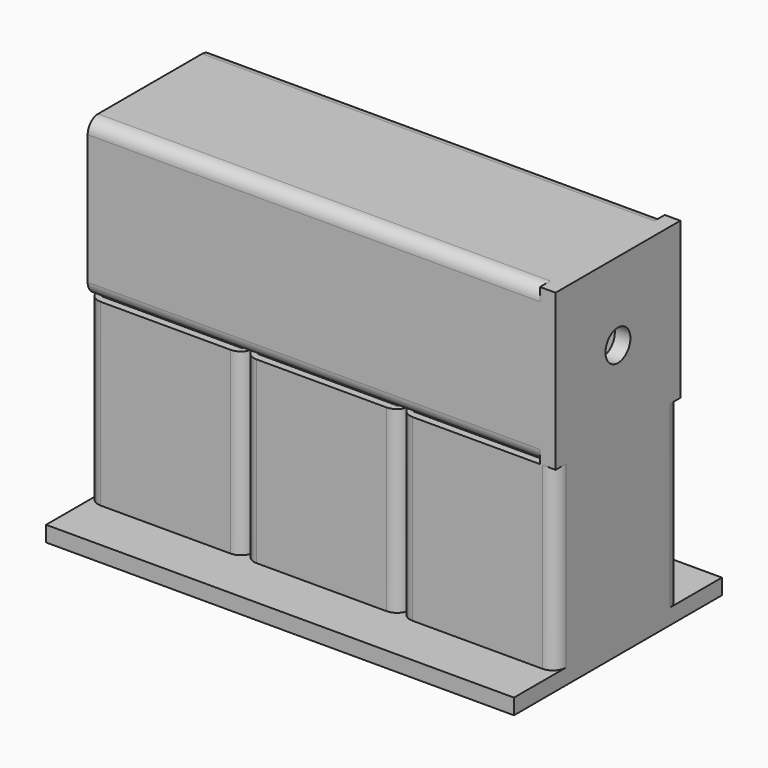
from build123d import *

# Parameters (mm, degrees)
F0_W     = 54
F0_H     = 54
F1_DEPTH = 69
F2_W     = 54
F2_H     = 54
F3_DEPTH = 6
F4_W     = 54
F4_H     = 54
F5_DEPTH = 180
F6_W     = 60
F6_H     = 60
F6_R     = 6
F7_DEPTH = 6


with BuildPart() as f1:
    # F0 (on Top) → F1 (new body)
    with BuildSketch(Plane.XY):
        with BuildLine():
            ThreePointArc((-10.85040465, -8.5986092687), (-12.314870744, -5.0630753627), (-15.85040465, -3.5986092687))
            Line((-15.85040465, -3.5986092687), (-65.85040465, -3.5986092687))
            ThreePointArc((-65.85040465, -3.5986092687), (-69.3859385559, -5.0630753627), (-70.85040465, -8.5986092687))
            Line((-70.85040465, -8.5986092687), (-70.85040465, -58.5986092687))
            ThreePointArc((-70.85040465, -58.5986092687), (-69.3859385559, -62.1341431746), (-65.85040465, -63.5986092687))
            Line((-65.85040465, -63.5986092687), (-15.85040465, -63.5986092687))
            ThreePointArc((-15.85040465, -63.5986092687), (-12.314870744, -62.1341431746), (-10.85040465, -58.5986092687))
            Line((-10.85040465, -58.5986092687), (-10.85040465, -8.5986092687))
        make_face()
        with Locations((-40.85040465, -33.5986092687)):
            Rectangle(F0_W, F0_H, mode=Mode.SUBTRACT)
        with BuildLine():
            ThreePointArc((-5.85040465, -3.5986092687), (-9.3859385559, -5.0630753627), (-10.85040465, -8.5986092687))
            Line((-10.85040465, -8.5986092687), (-10.85040465, -58.5986092687))
            ThreePointArc((-10.85040465, -58.5986092687), (-9.3859385559, -62.1341431746), (-5.85040465, -63.5986092687))
            Line((-5.85040465, -63.5986092687), (44.14959535, -63.5986092687))
            ThreePointArc((44.14959535, -63.5986092687), (47.685129256, -62.1341431746), (49.14959535, -58.5986092687))
            Line((49.14959535, -58.5986092687), (49.14959535, -8.5986092687))
            ThreePointArc((49.14959535, -8.5986092687), (47.685129256, -5.0630753627), (44.14959535, -3.5986092687))
            Line((44.14959535, -3.5986092687), (-5.85040465, -3.5986092687))
        make_face()
        with Locations((19.14959535, -33.5986092687)):
            Rectangle(F0_W, F0_H, mode=Mode.SUBTRACT)
        with BuildLine():
            ThreePointArc((54.14959535, -3.5986092687), (50.6140614441, -5.0630753627), (49.14959535, -8.5986092687))
            Line((49.14959535, -8.5986092687), (49.14959535, -58.5986092687))
            ThreePointArc((49.14959535, -58.5986092687), (50.6140614441, -62.1341431746), (54.14959535, -63.5986092687))
            Line((54.14959535, -63.5986092687), (104.14959535, -63.5986092687))
            ThreePointArc((104.14959535, -63.5986092687), (107.685129256, -62.1341431746), (109.14959535, -58.5986092687))
            Line((109.14959535, -58.5986092687), (109.14959535, -8.5986092687))
            ThreePointArc((109.14959535, -8.5986092687), (107.685129256, -5.0630753627), (104.14959535, -3.5986092687))
            Line((104.14959535, -3.5986092687), (54.14959535, -3.5986092687))
        make_face()
        with Locations((79.14959535, -33.5986092687)):
            Rectangle(F0_W, F0_H, mode=Mode.SUBTRACT)
    extrude(amount=F1_DEPTH)

    # F2 (on face) → F3 (join)
    with BuildSketch(Plane(origin=(0, 0, 0), x_dir=(1, 0, 0), z_dir=(0, 0, -1))):
        with BuildLine():
            Line((-70.85040465, -16.4013907313), (109.14959535, -16.4013907313))
            Line((109.14959535, -16.4013907313), (109.14959535, 8.5986092687))
            ThreePointArc((109.14959535, 8.5986092687), (107.685129256, 5.0630753627), (104.14959535, 3.5986092687))
            Line((104.14959535, 3.5986092687), (54.14959535, 3.5986092687))
            ThreePointArc((54.14959535, 3.5986092687), (50.6140614441, 5.0630753627), (49.14959535, 8.5986092687))
            ThreePointArc((49.14959535, 8.5986092687), (47.685129256, 5.0630753627), (44.14959535, 3.5986092687))
            Line((44.14959535, 3.5986092687), (-5.85040465, 3.5986092687))
            ThreePointArc((-5.85040465, 3.5986092687), (-9.3859385559, 5.0630753627), (-10.85040465, 8.5986092687))
            ThreePointArc((-10.85040465, 8.5986092687), (-12.314870744, 5.0630753627), (-15.85040465, 3.5986092687))
            Line((-15.85040465, 3.5986092687), (-65.85040465, 3.5986092687))
            ThreePointArc((-65.85040465, 3.5986092687), (-69.3859385559, 5.0630753627), (-70.85040465, 8.5986092687))
            Line((-70.85040465, 8.5986092687), (-70.85040465, -16.4013907313))
        make_face()
        with BuildLine():
            ThreePointArc((104.14959535, 63.5986092687), (107.685129256, 62.1341431746), (109.14959535, 58.5986092687))
            Line((109.14959535, 58.5986092687), (109.14959535, 83.5986092687))
            Line((109.14959535, 83.5986092687), (-70.85040465, 83.5986092687))
            Line((-70.85040465, 83.5986092687), (-70.85040465, 58.5986092687))
            ThreePointArc((-70.85040465, 58.5986092687), (-69.3859385559, 62.1341431746), (-65.85040465, 63.5986092687))
            Line((-65.85040465, 63.5986092687), (-15.85040465, 63.5986092687))
            ThreePointArc((-15.85040465, 63.5986092687), (-12.314870744, 62.1341431746), (-10.85040465, 58.5986092687))
            ThreePointArc((-10.85040465, 58.5986092687), (-9.3859385559, 62.1341431746), (-5.85040465, 63.5986092687))
            Line((-5.85040465, 63.5986092687), (44.14959535, 63.5986092687))
            ThreePointArc((44.14959535, 63.5986092687), (47.685129256, 62.1341431746), (49.14959535, 58.5986092687))
            ThreePointArc((49.14959535, 58.5986092687), (50.6140614441, 62.1341431746), (54.14959535, 63.5986092687))
            Line((54.14959535, 63.5986092687), (104.14959535, 63.5986092687))
        make_face()
        with BuildLine():
            ThreePointArc((104.14959535, 3.5986092687), (107.685129256, 5.0630753627), (109.14959535, 8.5986092687))
            Line((109.14959535, 8.5986092687), (109.14959535, 58.5986092687))
            ThreePointArc((109.14959535, 58.5986092687), (107.685129256, 62.1341431746), (104.14959535, 63.5986092687))
            Line((104.14959535, 63.5986092687), (54.14959535, 63.5986092687))
            ThreePointArc((54.14959535, 63.5986092687), (50.6140614441, 62.1341431746), (49.14959535, 58.5986092687))
            ThreePointArc((49.14959535, 58.5986092687), (47.685129256, 62.1341431746), (44.14959535, 63.5986092687))
            Line((44.14959535, 63.5986092687), (-5.85040465, 63.5986092687))
            ThreePointArc((-5.85040465, 63.5986092687), (-9.3859385559, 62.1341431746), (-10.85040465, 58.5986092687))
            ThreePointArc((-10.85040465, 58.5986092687), (-12.314870744, 62.1341431746), (-15.85040465, 63.5986092687))
            Line((-15.85040465, 63.5986092687), (-65.85040465, 63.5986092687))
            ThreePointArc((-65.85040465, 63.5986092687), (-69.3859385559, 62.1341431746), (-70.85040465, 58.5986092687))
            Line((-70.85040465, 58.5986092687), (-70.85040465, 8.5986092687))
            ThreePointArc((-70.85040465, 8.5986092687), (-69.3859385559, 5.0630753627), (-65.85040465, 3.5986092687))
            Line((-65.85040465, 3.5986092687), (-15.85040465, 3.5986092687))
            ThreePointArc((-15.85040465, 3.5986092687), (-12.314870744, 5.0630753627), (-10.85040465, 8.5986092687))
            ThreePointArc((-10.85040465, 8.5986092687), (-9.3859385559, 5.0630753627), (-5.85040465, 3.5986092687))
            Line((-5.85040465, 3.5986092687), (44.14959535, 3.5986092687))
            ThreePointArc((44.14959535, 3.5986092687), (47.685129256, 5.0630753627), (49.14959535, 8.5986092687))
            ThreePointArc((49.14959535, 8.5986092687), (50.6140614441, 5.0630753627), (54.14959535, 3.5986092687))
            Line((54.14959535, 3.5986092687), (104.14959535, 3.5986092687))
        make_face()
        with Locations((-40.85040465, 33.5986092687)):
            Rectangle(F2_W, F2_H, mode=Mode.SUBTRACT)
        with Locations((19.14959535, 33.5986092687)):
            Rectangle(F2_W, F2_H, mode=Mode.SUBTRACT)
        with Locations((79.14959535, 33.5986092687)):
            Rectangle(F2_W, F2_H, mode=Mode.SUBTRACT)
    extrude(amount=F3_DEPTH)

    # F4 (on face) → F5 (join, through all)
    with BuildSketch(Plane.YZ.offset(109.14959535)):
        with BuildLine():
            ThreePointArc((-3.5986092687, 124), (-5.0630753627, 127.5355339059), (-8.5986092687, 129))
            Line((-8.5986092687, 129), (-58.5986092687, 129))
            ThreePointArc((-58.5986092687, 129), (-62.1341431746, 127.5355339059), (-63.5986092687, 124))
            Line((-63.5986092687, 124), (-63.5986092687, 74))
            ThreePointArc((-63.5986092687, 74), (-62.1341431746, 70.4644660941), (-58.5986092687, 69))
            Line((-58.5986092687, 69), (-8.5986092687, 69))
            ThreePointArc((-8.5986092687, 69), (-5.0630753627, 70.4644660941), (-3.5986092687, 74))
            Line((-3.5986092687, 74), (-3.5986092687, 124))
        make_face()
        with Locations((-33.5986092687, 99)):
            Rectangle(F4_W, F4_H, mode=Mode.SUBTRACT)
    extrude(amount=-F5_DEPTH)

    # F6 (on face) → F7 (join)
    with BuildSketch(Plane.YZ.offset(109.14959535)):
        with Locations((-33.5986092687, 99)):
            Rectangle(F6_W, F6_H)
        with Locations((-33.5986092687, 99)):
            Circle(F6_R, mode=Mode.SUBTRACT)
    extrude(amount=-F7_DEPTH)


solid = f1.part
